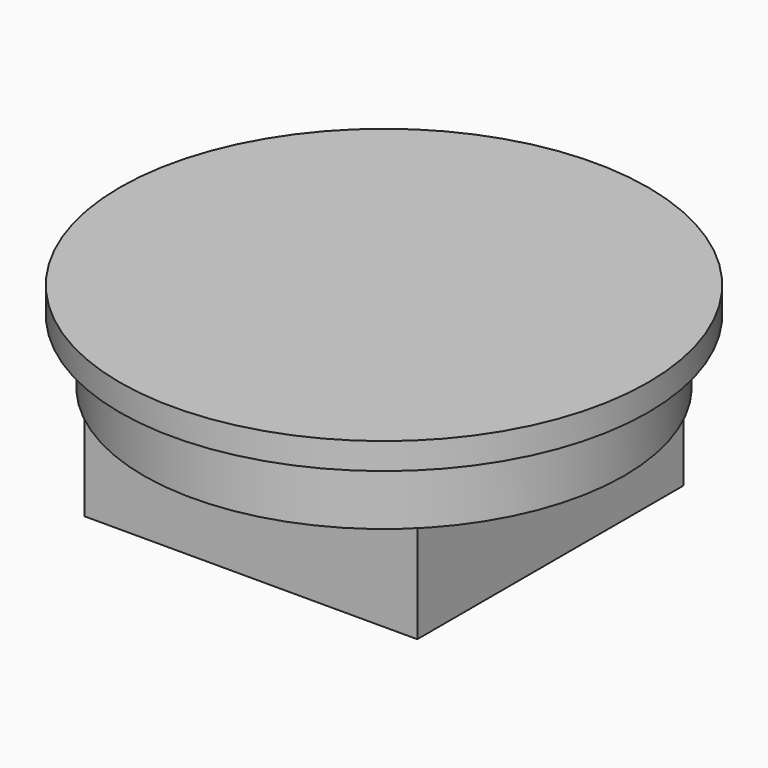
from build123d import *

# Parameters (mm, degrees)
SKETCH045_R  = 25
PAD017_DEPTH = 2.5
SKETCH046_R  = 22.75
PAD018_DEPTH = 6
SKETCH047_W  = 31.5
SKETCH047_H  = 31.5
PAD019_DEPTH = 9.5


with BuildPart() as part:
    # Sketch045 → Pad017 (new body)
    with BuildSketch(Plane.XY):
        Circle(SKETCH045_R)
    extrude(amount=PAD017_DEPTH)

    # Sketch046 (on Face2 of Pad017) → Pad018 (join)
    with BuildSketch(Plane(origin=(0, 0, 0), x_dir=(1, 0, 0), z_dir=(0, 0, -1))):
        Circle(SKETCH046_R)
    extrude(amount=PAD018_DEPTH)

    # Sketch047 (on Face5 of Pad018) → Pad019 (join)
    with BuildSketch(Plane(origin=(0, 0, -6), x_dir=(1, 0, 0), z_dir=(0, 0, -1))):
        Rectangle(SKETCH047_W, SKETCH047_H)
    extrude(amount=PAD019_DEPTH)


with BuildPart() as part_1:
    # Body009 placement: moved
    add(part.part.moved(Location((261, 50, -2))))


solid = part_1.part
